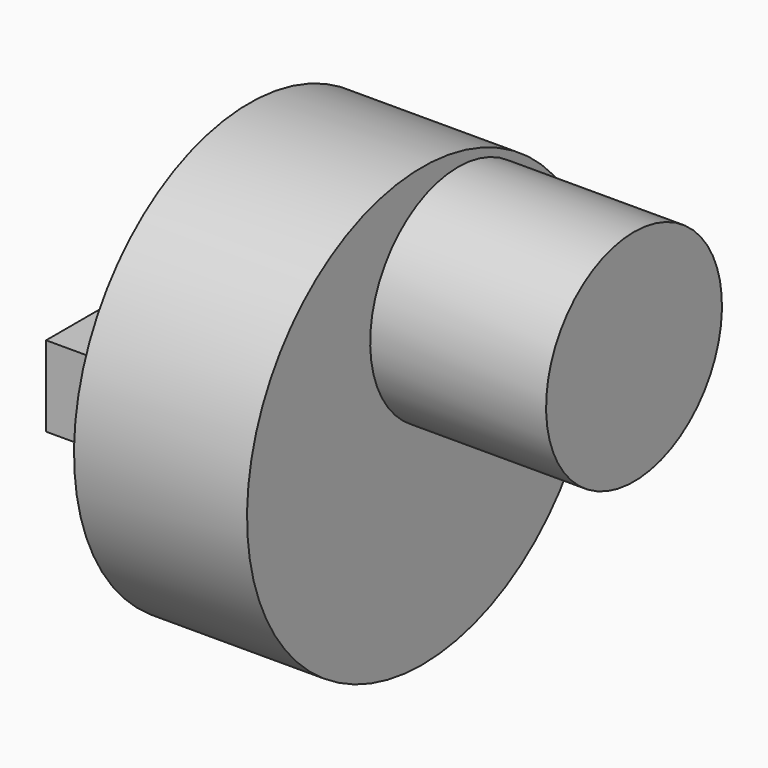
from build123d import *

# Parameters (mm, degrees)
F2_W     = 49.973063
F2_H     = 63.273296
F4_R     = 41.479948
F5_DEPTH = 49.973063
F6_W     = 83.203434
F6_H     = 23.239038
F7_DEPTH = 25.4


with BuildPart() as f1:
    # F0 (on Front) → F1 (revolve)
    with BuildSketch(Plane.XZ):
        Polygon((60.325, 60.325), (60.325, 41.275), (60.325, 34.925), (111.125, 34.925), (111.125, 66.675), (60.325, 66.675), align=None)
    revolve(axis=Axis((85.725, 0, 34.925), (-1, 0, 0)))


with BuildPart() as f3:
    # F2 (on Front) → F3 (revolve)
    with BuildSketch(Plane.XZ):
        with Locations((24.986531, -31.636648)):
            Rectangle(F2_W, F2_H)
    revolve(axis=Axis((24.986532, 0, 0), (-1, 0, 0)))

    # F4 (on face) → F5 (join, through all)
    with BuildSketch(Plane(origin=(0, 0, 0), x_dir=(0, -1, 0), z_dir=(-1, 0, 0))):
        Circle(F4_R)
    extrude(amount=-F5_DEPTH)

    # F6 (on face) → F7 (join)
    with BuildSketch(Plane(origin=(0, 0, 0), x_dir=(0, -1, 0), z_dir=(-1, 0, 0))):
        Rectangle(F6_W, F6_H)
    extrude(amount=F7_DEPTH)


solid = Compound([f1.part, f3.part])
